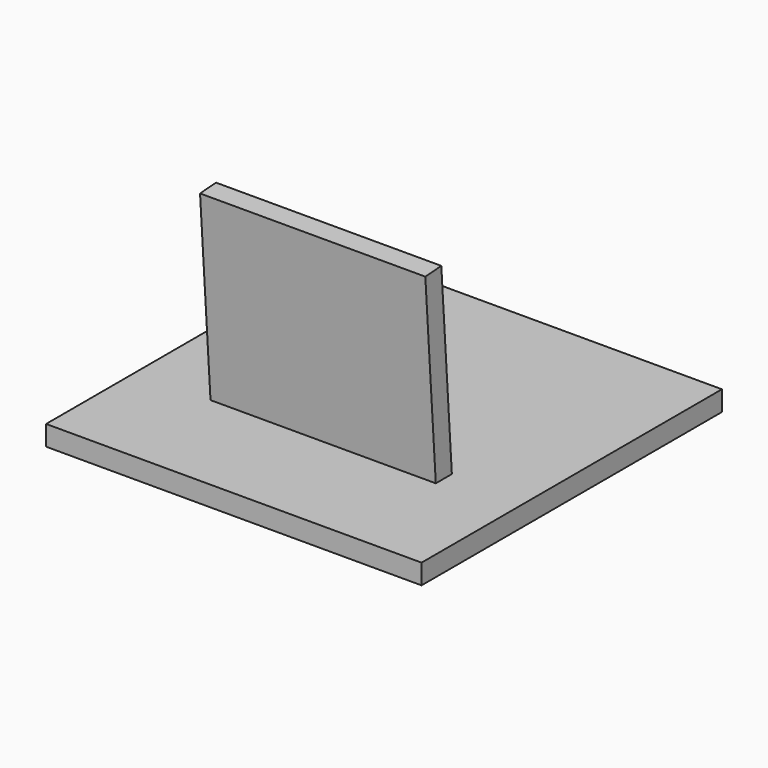
from build123d import *

# Parameters (mm, degrees)
F1_DEPTH = 150
F2_DEPTH = 90


with BuildPart() as f1:
    # F0 (on Right) → F1 (new body, symmetric)
    with BuildSketch(Plane.YZ):
        Polygon((-150, -8), (150, -8), (150, 8), (-44.729235, 8), (-60.768306, 8), (-150, 8), align=None)
    extrude(amount=F1_DEPTH, both=True)

    # F0 (on Right) → F2 (join, symmetric)
    with BuildSketch(Plane.YZ):
        Polygon((-60.768306, 8), (-44.729235, 8), (-55.270752, 158.750711), (-71.231777, 157.634608), align=None)
    extrude(amount=F2_DEPTH, both=True)


solid = f1.part
